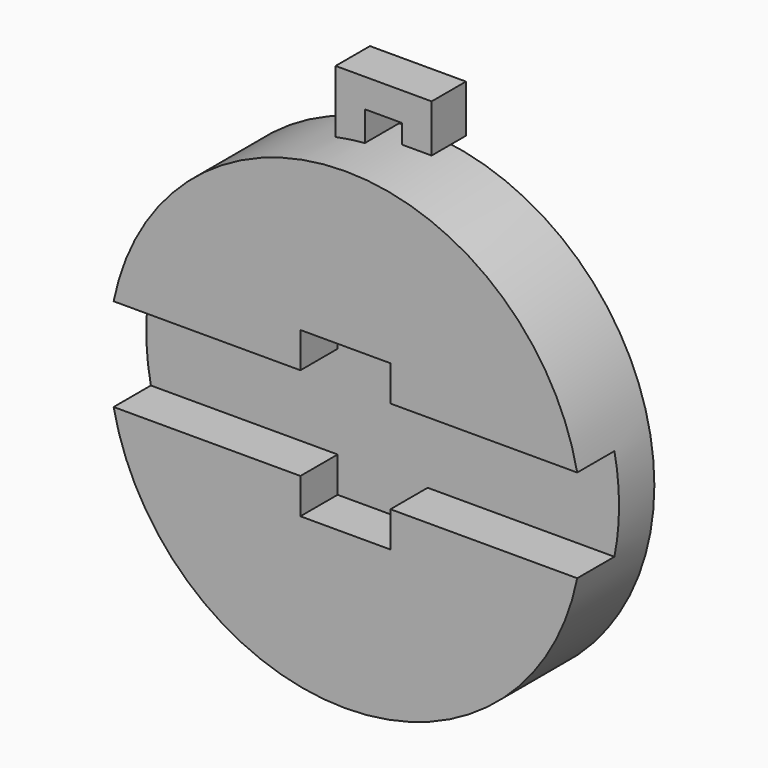
from build123d import *

# Parameters (mm, degrees)
F0_R     = 19.82
F1_DEPTH = 7.6
F3_DEPTH = 3.9
F5_DEPTH = 3.6


with BuildPart() as f1:
    # F0 (on Front) → F1 (new body)
    with BuildSketch(Plane.XZ):
        Circle(F0_R)
    extrude(amount=F1_DEPTH)

    # F2 (on face) → F3 (cut)
    with BuildSketch(Plane.XZ.offset(7.6)):
        Polygon((-3.775, 3.9), (-21.085563, 3.9), (-21.085563, -3.9), (-3.775, -3.9), (-3.775, -6.875), (3.775, -6.875), (3.775, -3.9), (21.085563, -3.9), (21.085563, 3.9), (3.775, 3.9), (3.775, 6.875), (-3.775, 6.875), align=None)
    extrude(amount=-F3_DEPTH, mode=Mode.SUBTRACT)

    # F4 (on Front) → F5 (join)
    with BuildSketch(Plane.XZ):
        Polygon((-4.025, 24.657003), (-4.025, 19.407003), (-1.575, 19.407003), (-1.575, 22.257003), (1.525, 22.257003), (1.525, 20.657003), (4.025, 20.657003), (4.025, 24.657003), align=None)
    extrude(amount=F5_DEPTH)


solid = f1.part
